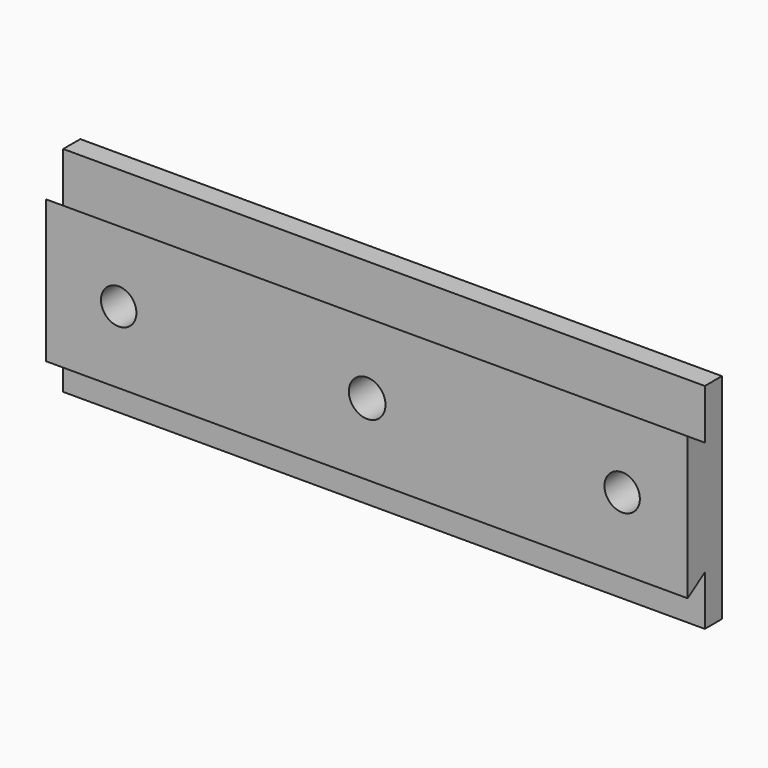
from build123d import *

# Parameters (mm, degrees)
PAD_DEPTH     = 90
SKETCH001_R   = 2.571292
SKETCH001_R_2 = 2.48503
POCKET_DEPTH  = 6


with BuildPart() as part:
    # Sketch → Pad (new body)
    with BuildSketch(Plane.YZ):
        Polygon((6, 0), (6, 30), (3, 30), (3, 23), (0, 25), (0, 5), (3, 7), (3, 0), align=None)
    extrude(amount=PAD_DEPTH)

    # Sketch001 → Pocket (cut)
    with BuildSketch(Plane(origin=(0, 0, 0), x_dir=(0, 0, -1), z_dir=(0, -1, 0))):
        with Locations((-15.088319, 45.037495)):
            Circle(SKETCH001_R)
        with Locations((-15.093687, 80.807022)):
            Circle(SKETCH001_R_2)
        with Locations((-15.089277, 10.18487)):
            Circle(SKETCH001_R_2)
    extrude(amount=-POCKET_DEPTH, mode=Mode.SUBTRACT)


solid = part.part
